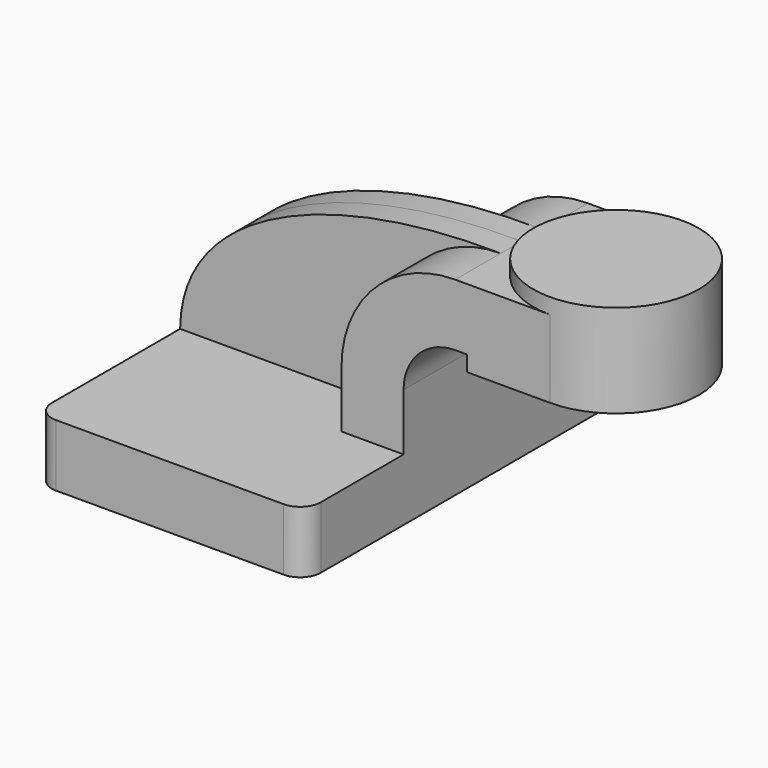
from build123d import *

# Parameters (mm, degrees)
F1_DEPTH = 63.5
F2_DEPTH = 25.4
F3_DEPTH = 7.9375
F5_R     = 6.35


with BuildPart() as f1:
    # F0 (on Front) → F1 (new body, symmetric)
    with BuildSketch(Plane.XZ):
        Polygon((-46.0913150109, 34.0935156439), (-46.0913150109, 15.0435156439), (36.4586849891, 15.0435156439), (36.4586849891, 34.0935156439), (17.4086849891, 34.0935156439), align=None)
    extrude(amount=F1_DEPTH, both=True)

    # F0 (on Front) → F2 (join, symmetric)
    with BuildSketch(Plane.XZ):
        with BuildLine():
            Line((17.4086849891, 34.0935156439), (36.4586849891, 34.0935156439))
            Line((36.4586849891, 34.0935156439), (36.4586849891, 51.5687156439))
            ThreePointArc((36.4586849891, 51.5687156439), (41.1083648378, 62.7940357952), (52.3336849891, 67.4437156439))
            Line((52.3336849891, 67.4437156439), (55.9586890934, 67.4437156439))
            Line((55.9586890934, 67.4437156439), (55.9586890934, 86.4937156439))
            Line((55.9586890934, 86.4937156439), (52.3336849891, 86.4937156439))
            ThreePointArc((52.3336849891, 86.4937156439), (27.6379806562, 76.2644199768), (17.4086849891, 51.5687156439))
            Line((17.4086849891, 51.5687156439), (17.4086849891, 34.0935156439))
        make_face()
        Polygon((81.3586890934, 86.4937156439), (55.9586890934, 86.4937156439), (55.9586890934, 67.4437156439), (55.9586890934, 62.6685156439), (81.3586890934, 62.6685156439), align=None)
    extrude(amount=F2_DEPTH, both=True)

    # F0 (on Front) → F3 (join, symmetric)
    with BuildSketch(Plane.XZ):
        with BuildLine():
            add(Edge.make_bspline(
                [(-46.0913150109, 34.0935156439), (-45.8442233503, 68.7412694097), (0, 87.3479917645), (52.3336849891, 86.4937156439)],
                knots=[0, 0, 0, 0, 111.5045361635, 111.5045361635, 111.5045361635, 111.5045361635], degree=3))
            Line((-46.0913150109, 34.0935156439), (17.4086849891, 34.0935156439))
            Line((17.4086849891, 34.0935156439), (17.4086849891, 51.5687156439))
            ThreePointArc((17.4086849891, 51.5687156439), (27.6379806562, 76.2644199768), (52.3336849891, 86.4937156439))
        make_face()
    extrude(amount=F3_DEPTH, both=True)

    # F0 (on Front) → F4 (revolve)
    with BuildSketch(Plane.XZ):
        Polygon((81.3586890934, 91.2435156439), (81.3586890934, 86.4937156439), (81.3586890934, 62.6685156439), (106.7586890934, 62.6685156439), (106.7586890934, 91.2435156439), align=None)
    revolve(axis=Axis((81.3586890934, 0, 76.9560156439), (0, 0, -1)))

    # F5
    f5_edges = [f1.edges().sort_by_distance(p)[0] for p in [
        (36.458685, -63.5, 24.568516),
        (-46.091315, -63.5, 24.568516),
        (36.458685, 63.5, 24.568516),
        (-46.091315, 63.5, 24.568516),
    ]]
    fillet(f5_edges, radius=F5_R)


solid = f1.part
